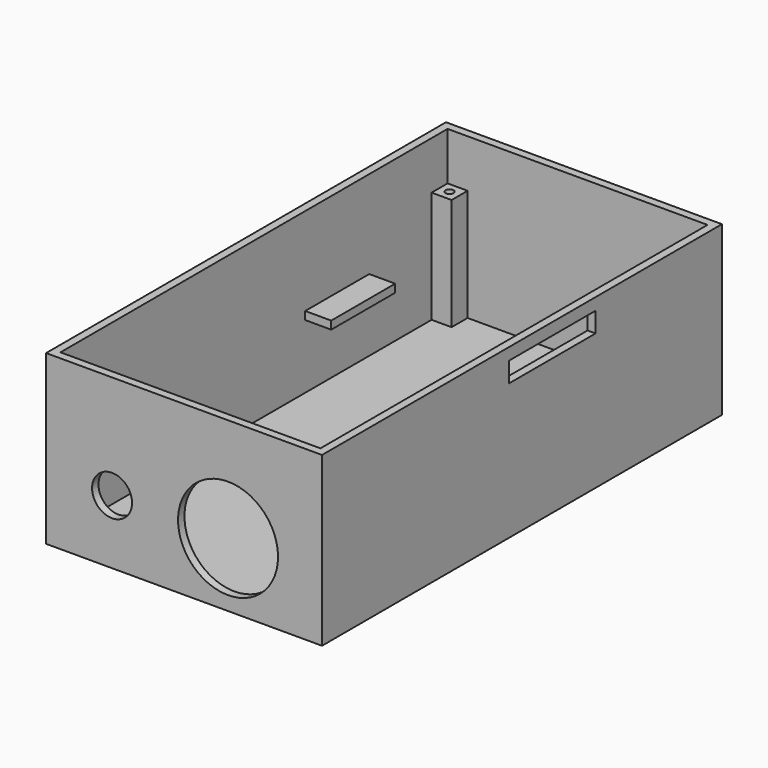
from build123d import *

# Parameters (mm, degrees)
SKETCH008_R       = 5
PAD006_DEPTH      = 2
CYLINDER002_R     = 1
CYLINDER002_DEPTH = 10
BOX002_W          = 7
BOX002_H          = 7
BOX002_DEPTH      = 30
CYLINDER001_R     = 1
CYLINDER001_DEPTH = 10
BOX001_W          = 7
BOX001_H          = 7
BOX001_DEPTH      = 30
CYLINDER_R        = 1
CYLINDER_DEPTH    = 10
BOX_W             = 7
BOX_H             = 7
BOX_DEPTH         = 30
SKETCH005_R       = 12.5
PAD004_DEPTH      = 2
SKETCH004_W       = 27
SKETCH004_H       = 5
PAD003_DEPTH      = 2
SKETCH_W          = 69
SKETCH_H          = 125
PAD_DEPTH         = 2
SKETCH001_W       = 69
SKETCH001_H       = 2
PAD001_DEPTH      = 40
PAD001_DEPTH_BACK = 2
SKETCH002_W       = 2
SKETCH002_H       = 125
PAD002_DEPTH      = 40
PAD002_DEPTH_BACK = 2
CYLINDER003_R     = 1
CYLINDER003_DEPTH = 10
BOX003_W          = 7
BOX003_H          = 7
BOX003_DEPTH      = 30
SKETCH006_W       = 8
SKETCH006_H       = 20
EXTRUDE_DEPTH     = 2


with BuildPart() as body005:
    # Sketch008 → Pad006 (new body)
    with BuildSketch(Plane.XZ):
        Circle(SKETCH008_R)
    extrude(amount=PAD006_DEPTH)


with BuildPart() as body005_1:
    # Body005 placement: moved
    add(body005.part.moved(Location((-18, -60.5, 14))))


with BuildPart() as cylinder002:
    # Cylinder002 → Cylinder002 (new body)
    with BuildSketch(Plane(origin=(-30, 58, 19), x_dir=(1, 0, 0), z_dir=(0, 0, 1))):
        Circle(CYLINDER002_R)
    extrude(amount=CYLINDER002_DEPTH)


with BuildPart() as cut004:
    # Box002 → Box002 (new body)
    with BuildSketch(Plane(origin=(-34.5, 55.5, -2), x_dir=(1, 0, 0), z_dir=(0, 0, 1))):
        with Locations((3.5, 3.5)):
            Rectangle(BOX002_W, BOX002_H)
    extrude(amount=BOX002_DEPTH)

    # Cut004: cut Cylinder002
    add(cylinder002.part, mode=Mode.SUBTRACT)


with BuildPart() as cylinder001:
    # Cylinder001 → Cylinder001 (new body)
    with BuildSketch(Plane(origin=(-30, -58, 20), x_dir=(1, 0, 0), z_dir=(0, 0, 1))):
        Circle(CYLINDER001_R)
    extrude(amount=CYLINDER001_DEPTH)


with BuildPart() as cut003:
    # Box001 → Box001 (new body)
    with BuildSketch(Plane(origin=(-34.5, -62.5, 0), x_dir=(1, 0, 0), z_dir=(0, 0, 1))):
        with Locations((3.5, 3.5)):
            Rectangle(BOX001_W, BOX001_H)
    extrude(amount=BOX001_DEPTH)

    # Cut003: cut Cylinder001
    add(cylinder001.part, mode=Mode.SUBTRACT)


with BuildPart() as cut003_1:
    # Cut003 placement: moved
    add(cut003.part.moved(Location((0, 0, -2))))


with BuildPart() as cylinder:
    # Cylinder → Cylinder (new body)
    with BuildSketch(Plane(origin=(30, -58, 18), x_dir=(1, 0, 0), z_dir=(0, 0, 1))):
        Circle(CYLINDER_R)
    extrude(amount=CYLINDER_DEPTH)


with BuildPart() as cut002:
    # Box → Box (new body)
    with BuildSketch(Plane(origin=(27, -62, -2), x_dir=(1, 0, 0), z_dir=(0, 0, 1))):
        with Locations((3.5, 3.5)):
            Rectangle(BOX_W, BOX_H)
    extrude(amount=BOX_DEPTH)

    # Cut002: cut Cylinder
    add(cylinder.part, mode=Mode.SUBTRACT)


with BuildPart() as body002:
    # Sketch005 → Pad004 (new body)
    with BuildSketch(Plane.XZ):
        Circle(SKETCH005_R)
    extrude(amount=PAD004_DEPTH)


with BuildPart() as body002_1:
    # Body002 placement: moved
    add(body002.part.moved(Location((11, -60.5, 14))))


with BuildPart() as sd_slot:
    # Sketch004 → Pad003 (new body)
    with BuildSketch(Plane.YZ):
        with Locations((7.5, 33.5)):
            Rectangle(SKETCH004_W, SKETCH004_H)
    extrude(amount=PAD003_DEPTH)


with BuildPart() as sd_slot_1:
    # Body001 placement: moved
    add(sd_slot.part.moved(Location((32.5, 2, 1))))


with BuildPart() as cut001:
    # Sketch → Pad (new body)
    with BuildSketch(Plane.XY):
        Rectangle(SKETCH_W, SKETCH_H)
    extrude(amount=-PAD_DEPTH)

    # Sketch001 → Pad001 (join, two sides)
    with BuildSketch(Plane.XY) as pad001_sk:
        with Locations((0, 61.5)):
            Rectangle(SKETCH001_W, SKETCH001_H)
        with Locations((0, -61.5)):
            Rectangle(SKETCH001_W, SKETCH001_H)
    extrude(amount=PAD001_DEPTH)
    extrude(pad001_sk.sketch, amount=-PAD001_DEPTH_BACK)

    # Sketch002 → Pad002 (join, two sides)
    with BuildSketch(Plane.XY) as pad002_sk:
        with Locations((33.5, 0)):
            Rectangle(SKETCH002_W, SKETCH002_H)
        with Locations((-33.5, 0)):
            Rectangle(SKETCH002_W, SKETCH002_H)
    extrude(amount=PAD002_DEPTH)
    extrude(pad002_sk.sketch, amount=-PAD002_DEPTH_BACK)

    # Cut: cut sd slot
    add(sd_slot_1.part, mode=Mode.SUBTRACT)

    # Cut001: cut Body002
    add(body002_1.part, mode=Mode.SUBTRACT)


with BuildPart() as cylinder003:
    # Cylinder003 → Cylinder003 (new body)
    with BuildSketch(Plane(origin=(30, 58, 18), x_dir=(1, 0, 0), z_dir=(0, 0, 1))):
        Circle(CYLINDER003_R)
    extrude(amount=CYLINDER003_DEPTH)


with BuildPart() as fusion:
    # Box003 → Box003 (new body)
    with BuildSketch(Plane(origin=(27.5, 55.5, -2), x_dir=(1, 0, 0), z_dir=(0, 0, 1))):
        with Locations((3.5, 3.5)):
            Rectangle(BOX003_W, BOX003_H)
    extrude(amount=BOX003_DEPTH)

    # Cut005: cut Cylinder003
    add(cylinder003.part, mode=Mode.SUBTRACT)

    # Fusion: union Cut004, Cut003, Cut002, Cut001
    add(cut004.part)
    add(cut003_1.part)
    add(cut002.part)
    add(cut001.part)


with BuildPart() as cut006:
    # Sketch006 → Extrude (new body)
    with BuildSketch(Plane.XY):
        with Locations((34, 0)):
            Rectangle(SKETCH006_W, SKETCH006_H)
        with Locations((-26, 0)):
            Rectangle(SKETCH006_W, SKETCH006_H)
    extrude(amount=EXTRUDE_DEPTH)


with BuildPart() as cut006_1:
    # Extrude placement: moved
    add(cut006.part.moved(Location((-4, 26, 16))))

    # Fusion001: union Fusion
    add(fusion.part)

    # Cut006: cut Body005
    add(body005_1.part, mode=Mode.SUBTRACT)


solid = cut006_1.part
